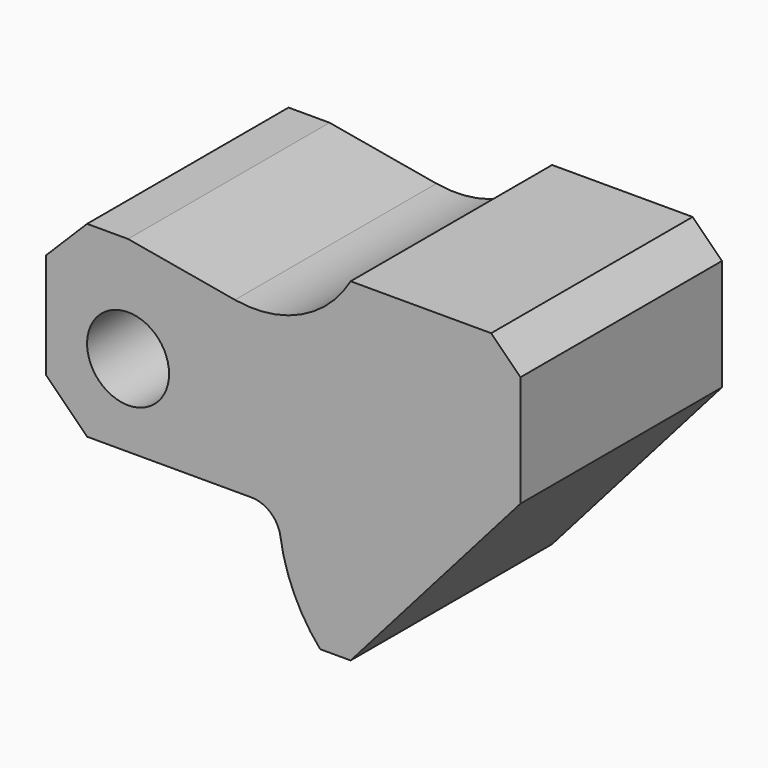
from build123d import *

# Parameters (mm, degrees)
F0_R     = 7
F1_DEPTH = 43


with BuildPart() as f1:
    # F0 (on Front) → F1 (new body)
    with BuildSketch(Plane.XZ):
        with BuildLine():
            Line((40.5, 23.5), (35.5, 28.5))
            Line((35.5, 28.5), (11.5, 28.5))
            ThreePointArc((11.5, 28.5), (3.074973, 20.776069), (-8.256915, 19.283252))
            Line((-8.256915, 19.283252), (-26.5, 22.5))
            Line((-26.5, 22.5), (-33.5, 22.5))
            Line((-33.5, 22.5), (-40.5, 15.5))
            Line((-40.5, 15.5), (-40.5, -2.5))
            Line((-40.5, -2.5), (-33.5, -9.5))
            Line((-33.5, -9.5), (-5.433374, -9.5))
            ThreePointArc((-5.433374, -9.5), (-2.168138, -10.713414), (-0.487735, -13.764706))
            ThreePointArc((-0.487735, -13.764706), (1.849095, -21.615672), (6.288067, -28.5))
            Line((6.288067, -28.5), (11.5, -28.5))
            Line((11.5, -28.5), (40.5, 4.5))
            Line((40.5, 4.5), (40.5, 23.5))
        make_face()
        with Locations((-26.5, 4.5)):
            Circle(F0_R, mode=Mode.SUBTRACT)
    extrude(amount=-F1_DEPTH)


solid = f1.part
